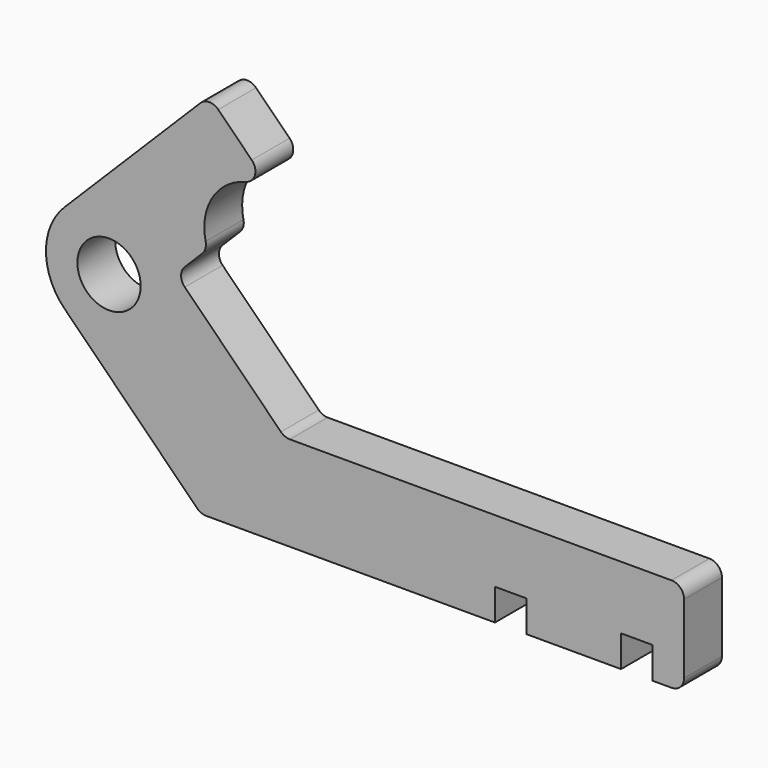
from build123d import *

# Parameters (mm, degrees)
F0_R     = 6.3754
F1_DEPTH = 9.525
F2_R     = 2.54
F3_R     = 2.54


with BuildPart() as f1:
    # F0 (on Front) → F1 (new body)
    with BuildSketch(Plane.XZ):
        with BuildLine():
            ThreePointArc((20.258996, 9.87189), (22.492237, 21.066453), (33.413953, 24.386349))
            Line((33.413953, 24.386349), (20.62332, 37.176983))
            Line((20.62332, 37.176983), (-8.562513, 7.99115))
            ThreePointArc((-8.562513, 7.99115), (-12.282257, -0.989106), (-8.562513, -9.969362))
            Line((-8.562513, -9.969362), (18.922999, -37.454874))
            Line((18.922999, -37.454874), (78.158512, -37.454874))
            Line((78.158512, -37.454874), (78.158512, -31.104874))
            Line((78.158512, -31.104874), (84.508512, -31.104874))
            Line((84.508512, -31.104874), (84.508512, -37.454874))
            Line((84.508512, -37.454874), (103.558512, -37.454874))
            Line((103.558512, -37.454874), (103.558512, -31.104874))
            Line((103.558512, -31.104874), (109.908512, -31.104874))
            Line((109.908512, -31.104874), (109.908512, -37.454874))
            Line((109.908512, -37.454874), (116.258512, -37.454874))
            Line((116.258512, -37.454874), (116.258512, -18.404874))
            Line((116.258512, -18.404874), (35.794024, -18.404874))
            Line((35.794024, -18.404874), (13.888128, 3.501022))
            Line((13.888128, 3.501022), (20.258996, 9.87189))
        make_face()
        with Locations((0.417743, -0.989106)):
            Circle(F0_R, mode=Mode.SUBTRACT)
    extrude(amount=-F1_DEPTH)

    # F2
    f2_edges = [f1.edges().sort_by_distance(p)[0] for p in [
        (33.413953, 4.7625, 24.386349),
        (20.258996, 4.7625, 9.87189),
    ]]
    fillet(f2_edges, radius=F2_R)

    # F3
    f3_edges = [f1.edges().sort_by_distance(p)[0] for p in [
        (13.888128, 4.7625, 3.501022),
        (35.794024, 4.7625, -18.404874),
        (18.922999, 4.7625, -37.454874),
        (116.258512, 4.7625, -18.404874),
        (116.258512, 4.7625, -37.454874),
        (20.62332, 4.7625, 37.176983),
    ]]
    fillet(f3_edges, radius=F3_R)


solid = f1.part
